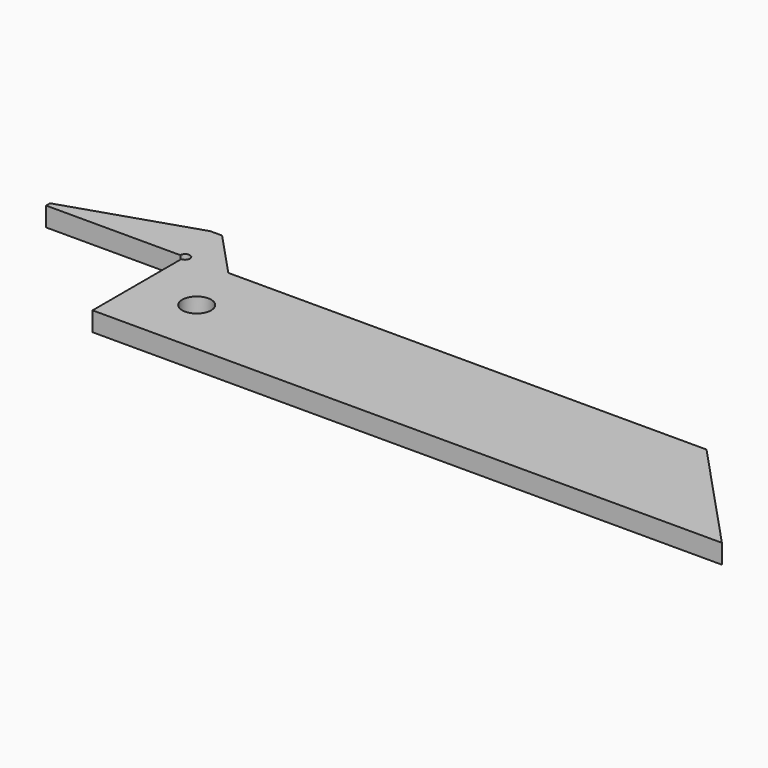
from build123d import *

# Parameters (mm, degrees)
F0_R     = 2.38125
F1_DEPTH = 3.175


with BuildPart() as f1:
    # F0 (on Top) → F1 (new body)
    with BuildSketch(Plane.XY):
        with BuildLine():
            Line((-25.392864, -14.781781), (-25.392864, -33.038031))
            Line((-25.392864, -33.038031), (78.239136, -33.038031))
            Line((78.239136, -33.038031), (60.459136, -13.988031))
            Line((60.459136, -13.988031), (-18.280864, -13.988031))
            Line((-18.280864, -13.988031), (-25.392864, -6.368031))
            Line((-25.392864, -6.368031), (-27.347883, -6.368031))
            Line((-27.347883, -6.368031), (-48.284614, -13.172616))
            Line((-48.284614, -13.172616), (-48.284614, -13.988031))
            Line((-48.284614, -13.988031), (-26.186614, -13.988031))
            ThreePointArc((-26.186614, -13.988031), (-24.831598, -13.426765), (-25.392864, -14.781781))
        make_face()
        with Locations((-15.867864, -23.513031)):
            Circle(F0_R, mode=Mode.SUBTRACT)
    extrude(amount=F1_DEPTH)


solid = f1.part
